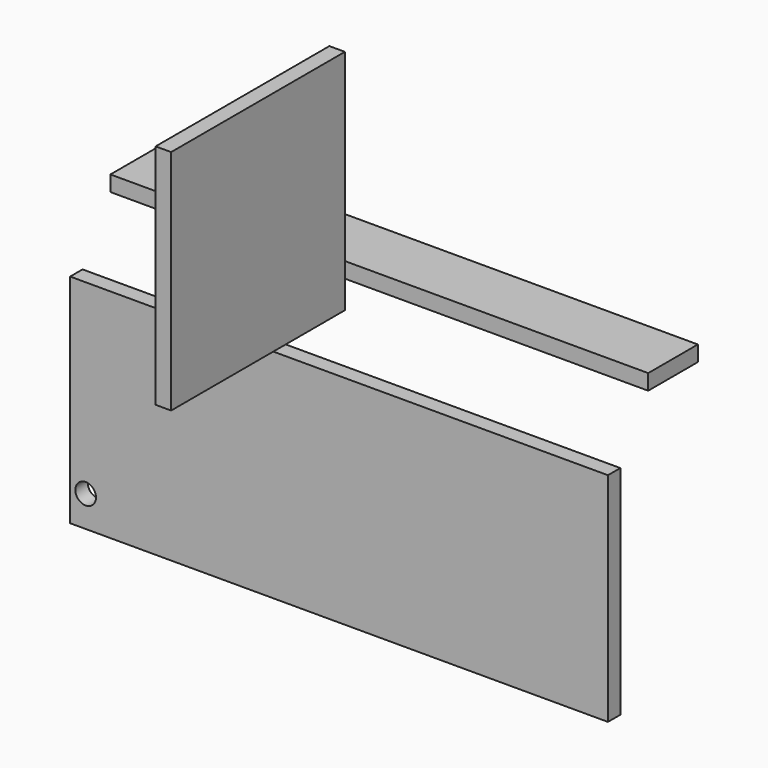
from build123d import *

# Parameters (mm, degrees)
F0_W     = 660.4
F0_H     = 266.7
F1_DEPTH = 19.05
F2_W     = 660.4
F2_H     = 76.2
F3_DEPTH = 19.05
F4_W     = 266.7
F4_H     = 279.4
F5_DEPTH = 19.05
F6_D     = 25.4


with BuildPart() as f1:
    # F0 (on Front) → F1 (new body)
    with BuildSketch(Plane.XZ):
        with Locations((0.3927573562, -215.5641628401)):
            Rectangle(F0_W, F0_H)
    extrude(amount=F1_DEPTH)

    # F6 (through all)
    with Locations(Plane(origin=(0, 0, 0), x_dir=(1, 0, 0), z_dir=(0, 1, 0))):
        with Locations((-310.7572426438, 310.8141628401)):
            Hole(F6_D / 2)


with BuildPart() as f3:
    # F2 (on Top) → F3 (new body)
    with BuildSketch(Plane.XY):
        with Locations((19.6088701487, 56.8355319258)):
            Rectangle(F2_W, F2_H)
    extrude(amount=F3_DEPTH)


with BuildPart() as f5:
    # F4 (on Right) → F5 (new body)
    with BuildSketch(Plane.YZ):
        with Locations((-166.7686700821, 140.3216040973)):
            Rectangle(F4_W, F4_H)
    extrude(amount=F5_DEPTH)


solid = Compound([f1.part, f3.part, f5.part])
